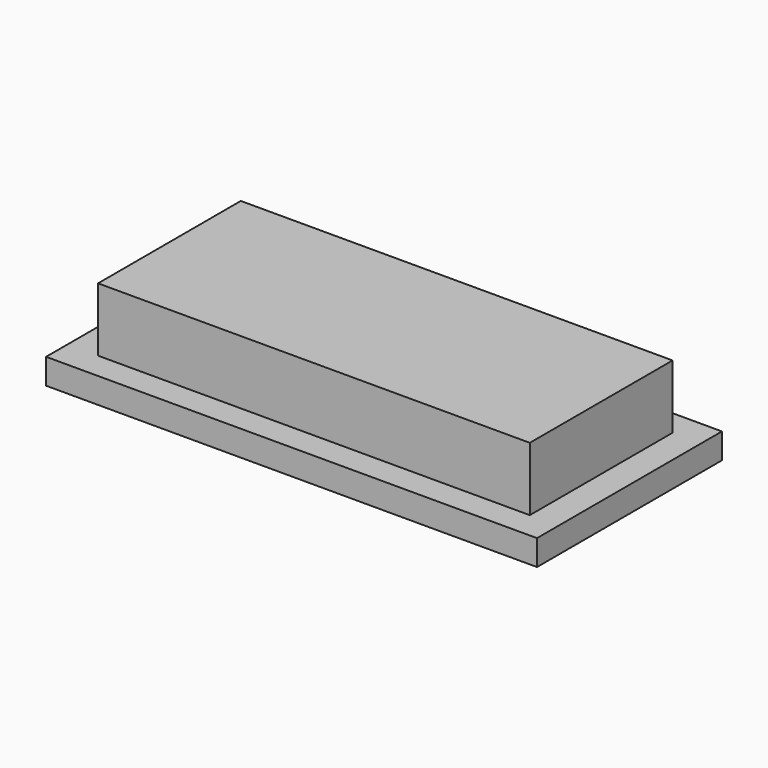
from build123d import *

# Parameters (mm, degrees)
F0_W     = 97.892423
F0_H     = 46.090555
F1_DEPTH = 5.08
F2_W     = 86.093713
F2_H     = 35.580484
F3_DEPTH = 12.7
F4_R     = 11.991925
F4_R_2   = 12.059751
F5_DEPTH = 2.54
F6_R     = 2.467434
F7_DEPTH = 2.54


with BuildPart() as f1:
    # F0 (on Top) → F1 (new body)
    with BuildSketch(Plane.XY):
        with Locations((1.290484, 0.460411)):
            Rectangle(F0_W, F0_H)
    extrude(amount=F1_DEPTH)

    # F2 (on face) → F3 (join)
    with BuildSketch(Plane.XY.offset(5.08)):
        with Locations((1.47484, 0.553065)):
            Rectangle(F2_W, F2_H)
    extrude(amount=F3_DEPTH)

    # F4 (on face) → F5 (join)
    with BuildSketch(Plane(origin=(0, 0, 0), x_dir=(1, 0, 0), z_dir=(0, 0, -1))):
        with Locations((-28.851533, 0)):
            Circle(F4_R)
        with Locations((31.06379, 0)):
            Circle(F4_R_2)
    extrude(amount=F5_DEPTH)


with BuildPart() as f7:
    # F6 (on face) → F7 (new body)
    with BuildSketch(Plane(origin=(0, 18.343307, 0), x_dir=(-1, 0, 0), z_dir=(0, 1, 0))):
        with Locations((30.926181, 10.982472)):
            Circle(F6_R)
        with Locations((-33.829112, 11.153467)):
            Circle(F6_R)
    extrude(amount=F7_DEPTH)


solid = Compound([f1.part, f7.part])
